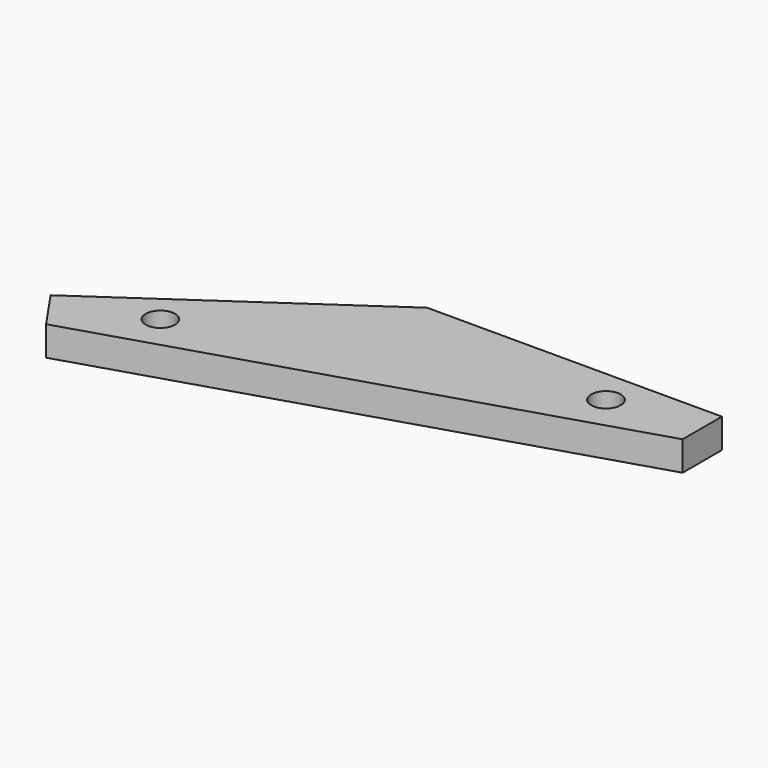
from build123d import *

# Parameters (mm, degrees)
F0_R     = 1.5
F1_DEPTH = 3


with BuildPart() as f1:
    # F0 (on Top) → F1 (new body)
    with BuildSketch(Plane.XY):
        Polygon((-20.252862, 0), (-50.252862, 0), (-74.96082, -17.015193), (-72.124955, -21.133186), (-20.252862, -5), align=None)
        with Locations((-65.563327, -14.79323)):
            Circle(F0_R, mode=Mode.SUBTRACT)
        with Locations((-29.252862, -3.5)):
            Circle(F0_R, mode=Mode.SUBTRACT)
    extrude(amount=F1_DEPTH)


solid = f1.part
